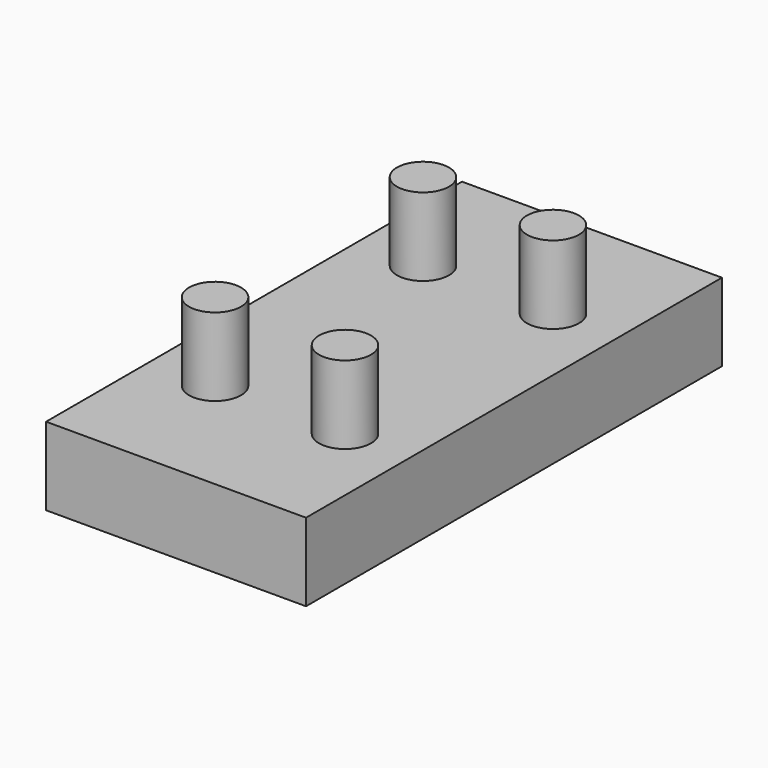
from build123d import *

# Parameters (mm, degrees)
F0_W     = 12.7
F0_H     = 25.4
F1_DEPTH = 3.81
F2_R     = 1.27
F3_DEPTH = 3.81


with BuildPart() as f1:
    # F0 (on Top) → F1 (new body)
    with BuildSketch(Plane.XY):
        Rectangle(F0_W, F0_H)
    extrude(amount=F1_DEPTH)

    # F2 (on face) → F3 (join)
    with BuildSketch(Plane.XY.offset(3.81)):
        with Locations((-3.175, 6.35)):
            Circle(F2_R)
        with Locations((3.175, 6.35)):
            Circle(F2_R)
        with Locations((3.175, -6.35)):
            Circle(F2_R)
        with Locations((-3.175, -6.35)):
            Circle(F2_R)
    extrude(amount=F3_DEPTH)


solid = f1.part
